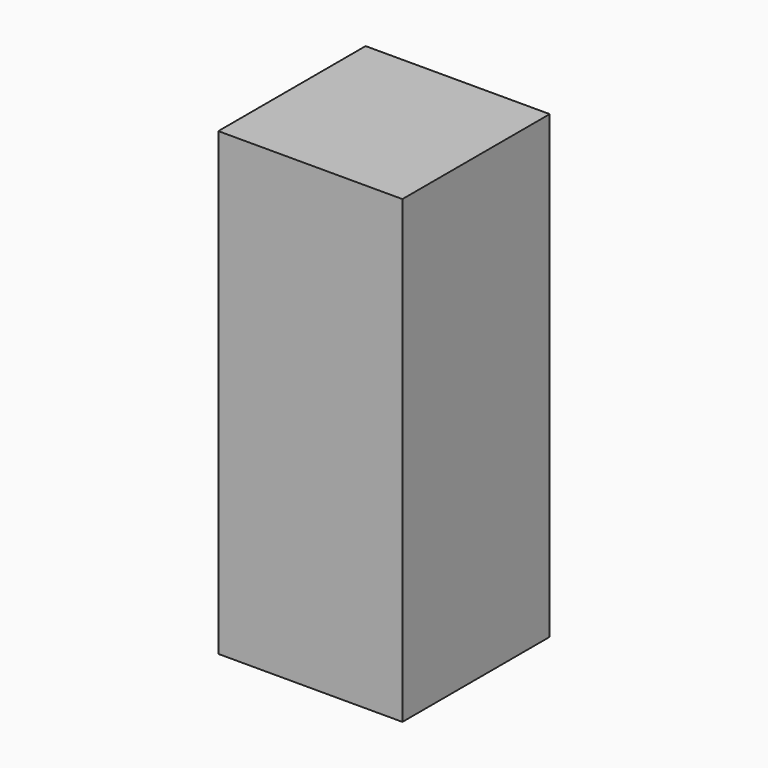
from build123d import *

# Parameters (mm, degrees)
F1_DEPTH = 10
F2_DEPTH = 15


with BuildPart() as f1:
    # F0 (on Top) → F1 (new body)
    with BuildSketch(Plane.XY):
        Polygon((-5, 5), (-5, 0), (-5, -5), (0, -5), (5, -5), (5, 0), (5, 5), (0, 5), align=None)
        Polygon((-1.955262, 3.270619), (1.854809, 3.328616), (3.81007, 0.057997), (1.955262, -3.270619), (-1.854809, -3.328616), (-3.81007, -0.057997), (-3.777753, 0), align=None, mode=Mode.SUBTRACT)
        Polygon((3.81007, 0.057997), (1.854809, 3.328616), (-1.955262, 3.270619), (-3.777753, 0), (-3.81007, -0.057997), (-1.854809, -3.328616), (1.955262, -3.270619), align=None)
    extrude(amount=F1_DEPTH)

    # F0 (on Top) → F2 (join)
    with BuildSketch(Plane.XY):
        Polygon((-5, 5), (-5, 0), (-5, -5), (0, -5), (5, -5), (5, 0), (5, 5), (0, 5), align=None)
        Polygon((-1.955262, 3.270619), (1.854809, 3.328616), (3.81007, 0.057997), (1.955262, -3.270619), (-1.854809, -3.328616), (-3.81007, -0.057997), (-3.777753, 0), align=None, mode=Mode.SUBTRACT)
    extrude(amount=-F2_DEPTH)


solid = f1.part
